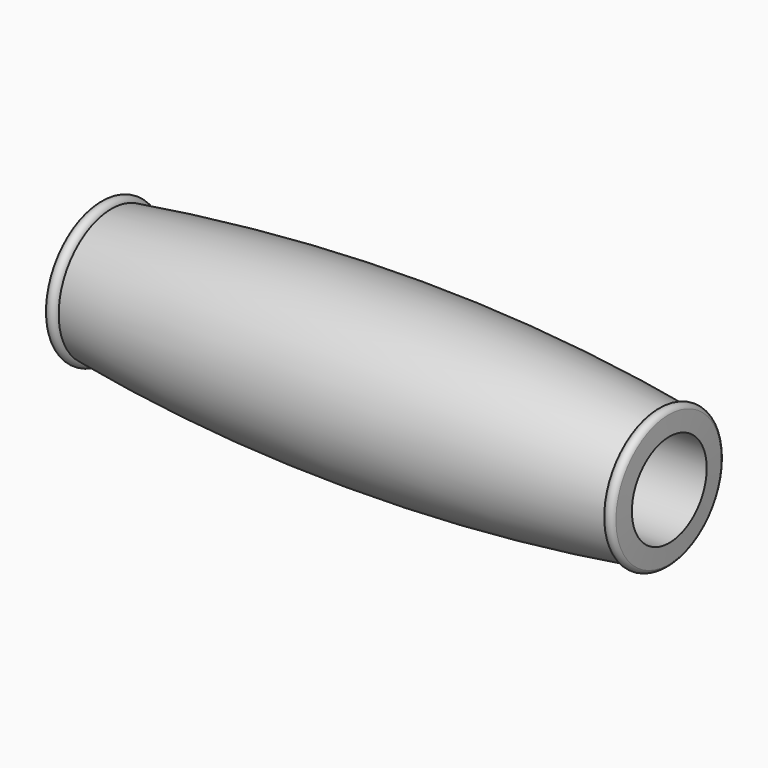
from build123d import *


with BuildPart() as f2:
    # F2: sweep along a path in F1
    with BuildLine(Plane.YZ) as f2_path:
        CenterArc((0, 0), 12.626421, 0, 360)
    # F0 (on Front) → F2 (sweep)
    with BuildSketch(Plane.XZ):
        with BuildLine():
            Line((3.175, 0), (3.175, 12.522062))
            Line((3.175, 12.522062), (152.4, 12.522062))
            Line((152.4, 12.522062), (152.240908, 17.656458))
            ThreePointArc((152.240908, 17.656458), (150.732954, 18.7212), (149.225, 17.656458))
            ThreePointArc((149.225, 17.656458), (76.187167, 22.932528), (3.1496, 17.652767))
            ThreePointArc((3.1496, 17.652767), (1.5748, 18.968987), (0, 17.652767))
            Line((0, 17.652767), (0, 0))
            Line((0, 0), (3.175, 0))
        make_face()
    sweep(path=f2_path.line)


solid = f2.part
